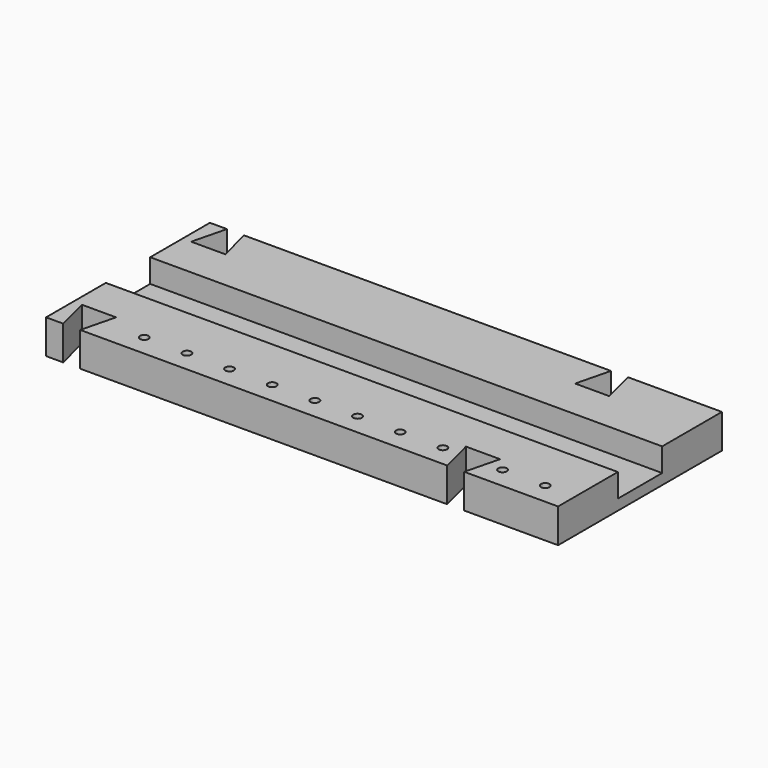
from build123d import *

# Parameters (mm, degrees)
F0_R     = 12.7
F1_DEPTH = 101.6
F2_W     = 1524
F2_H     = 165.1
F3_DEPTH = 69.85


with BuildPart() as f1:
    # F0 (on Top) → F1 (new body)
    with BuildSketch(Plane.XY):
        Polygon((762, -304.8), (762, 304.8), (482.6, 304.8), (508, 203.2), (406.4, 203.2), (431.8, 304.8), (-635, 304.8), (-660.4, 304.8), (-635, 203.2), (-736.6, 203.2), (-711.2, 304.8), (-736.6, 304.8), (-762, 304.8), (-762, -304.8), (-736.6, -304.8), (-711.2, -304.8), (-736.6, -203.2), (-635, -203.2), (-660.4, -304.8), (-635, -304.8), (431.8, -304.8), (406.4, -203.2), (508, -203.2), (482.6, -304.8), align=None)
        with Locations((-520.7, -241.3)):
            Circle(F0_R, mode=Mode.SUBTRACT)
        with Locations((-393.7, -241.3)):
            Circle(F0_R, mode=Mode.SUBTRACT)
        with Locations((-266.7, -241.3)):
            Circle(F0_R, mode=Mode.SUBTRACT)
        with Locations((-139.7, -241.3)):
            Circle(F0_R, mode=Mode.SUBTRACT)
        with Locations((-12.7, -241.3)):
            Circle(F0_R, mode=Mode.SUBTRACT)
        with Locations((114.3, -241.3)):
            Circle(F0_R, mode=Mode.SUBTRACT)
        with Locations((241.3, -241.3)):
            Circle(F0_R, mode=Mode.SUBTRACT)
        with Locations((368.3, -241.3)):
            Circle(F0_R, mode=Mode.SUBTRACT)
        with Locations((546.1, -241.3)):
            Circle(F0_R, mode=Mode.SUBTRACT)
        with Locations((673.1, -241.3)):
            Circle(F0_R, mode=Mode.SUBTRACT)
    extrude(amount=F1_DEPTH)

    # F2 (on face) → F3 (cut)
    with BuildSketch(Plane.XY.offset(101.6)):
        Rectangle(F2_W, F2_H)
    extrude(amount=-F3_DEPTH, mode=Mode.SUBTRACT)


solid = f1.part
